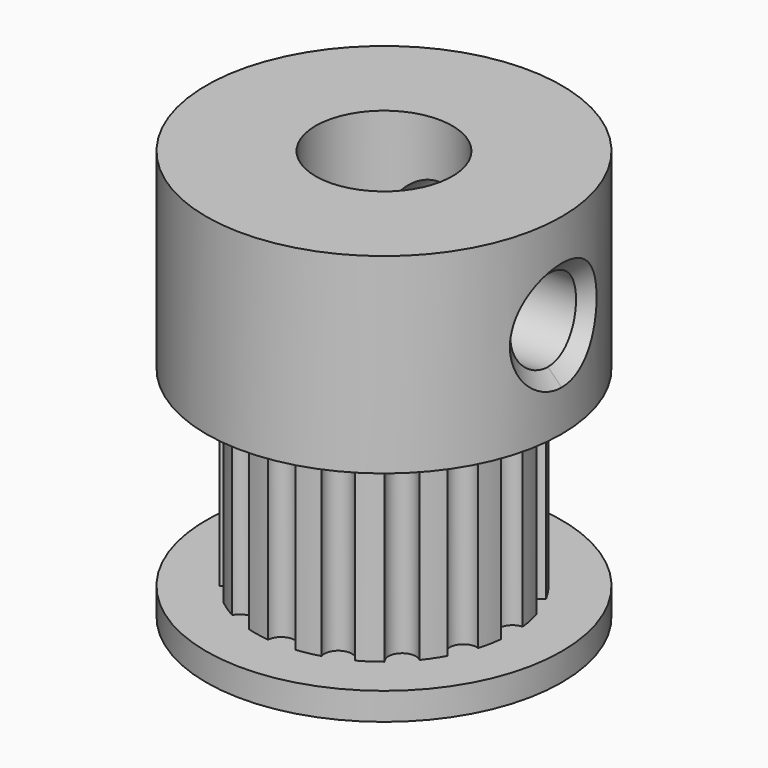
from build123d import *

# Parameters (mm, degrees)
SKETCH004_R            = 0.5
PAD002_DEPTH           = 7
SKETCH003_R            = 1.5
PAD001_DEPTH           = 8
SKETCH002_R            = 1.5
PAD049_DEPTH           = 8
SKETCH001_R            = 2.5
POCKET_DEPTH           = 15
CHAMFER_SIZE           = 0.5
CHAMFER001_SIZE        = 0.5
CUT002_PLACEMENT_ANGLE = 180


with BuildPart() as pad002:
    # Sketch004 → Pad002 (new body)
    with BuildSketch(Plane.XY.offset(14)):
        with Locations((0, 4.7)):
            Circle(SKETCH004_R)
        with Locations((0, -4.7)):
            Circle(SKETCH004_R)
        with Locations((4.7, 0)):
            Circle(SKETCH004_R)
        with Locations((-4.7, 0)):
            Circle(SKETCH004_R)
        with Locations((-3.323402, 3.323402)):
            Circle(SKETCH004_R)
        with Locations((3.323402, 3.323402)):
            Circle(SKETCH004_R)
        with Locations((-3.323402, -3.323402)):
            Circle(SKETCH004_R)
        with Locations((3.323402, -3.323402)):
            Circle(SKETCH004_R)
        with Locations((-1.798612, 4.342234)):
            Circle(SKETCH004_R)
        with Locations((1.798612, 4.342234)):
            Circle(SKETCH004_R)
        with Locations((4.342234, 1.798612)):
            Circle(SKETCH004_R)
        with Locations((4.342234, -1.798612)):
            Circle(SKETCH004_R)
        with Locations((1.798612, -4.342234)):
            Circle(SKETCH004_R)
        with Locations((-1.798612, -4.342234)):
            Circle(SKETCH004_R)
        with Locations((-4.342234, -1.798612)):
            Circle(SKETCH004_R)
        with Locations((-4.314713, 1.863666)):
            Circle(SKETCH004_R)
    extrude(amount=-PAD002_DEPTH)


with BuildPart() as pad001:
    # Sketch003 → Pad001 (new body)
    with BuildSketch(Plane(origin=(7, 0, 3.5), x_dir=(0, 1, 0), z_dir=(1, 0, 0))):
        Circle(SKETCH003_R)
    extrude(amount=-PAD001_DEPTH)


with BuildPart() as pad049:
    # Sketch002 → Pad049 (new body)
    with BuildSketch(Plane(origin=(0, -7, 3.5), x_dir=(1, 0, 0), z_dir=(0, -1, 0))):
        Circle(SKETCH002_R)
    extrude(amount=-PAD049_DEPTH)


with BuildPart() as gt1_pulley:
    # Sketch062 → Revolution (revolve)
    with BuildSketch(Plane.XZ):
        Polygon((0, 0), (6.5, 0), (6.5, 7), (4.7, 7), (4.7, 14), (6.5, 14), (6.5, 15), (0, 15), align=None)
    revolve(axis=Axis((0, 0, 0), (0, 0, 1)))

    # Sketch001 (on Face7 of Revolution) → Pocket (cut)
    with BuildSketch(Plane(origin=(0, 0, 15), x_dir=(-1, 0, 0), z_dir=(0, 0, 1))):
        Circle(SKETCH001_R)
    extrude(amount=-POCKET_DEPTH, mode=Mode.SUBTRACT)

    # Cut: cut Pad049
    add(pad049.part, mode=Mode.SUBTRACT)

    # Cut001: cut Pad001
    add(pad001.part, mode=Mode.SUBTRACT)

    # Chamfer
    chamfer_edges = [gt1_pulley.edges().sort_by_distance(p)[0] for p in [
        (-4e-06, -6.499997, 4.999986),
        (-4e-06, -6.499997, 2.000014),
        (6.412872, 1.060693, 4.560627),
        (6.412872, 1.060693, 2.439373),
        (6.412872, -1.060693, 2.439373),
        (6.412872, -1.060693, 4.560627),
    ]]
    chamfer(chamfer_edges, length=CHAMFER_SIZE)

    # Chamfer001
    chamfer001_edges = [gt1_pulley.edges().sort_by_distance(p)[0] for p in [
        (2.5, 0, 15),
    ]]
    chamfer(chamfer001_edges, length=CHAMFER001_SIZE)

    # Cut002: cut Pad002
    add(pad002.part, mode=Mode.SUBTRACT)


with BuildPart() as gt1_pulley_1:
    # Cut002 placement: moved
    add(gt1_pulley.part.moved(Location((4, 0, 26))).rotate(Axis((4, 0, 26), (1, 0, 0)), CUT002_PLACEMENT_ANGLE))


solid = gt1_pulley_1.part
